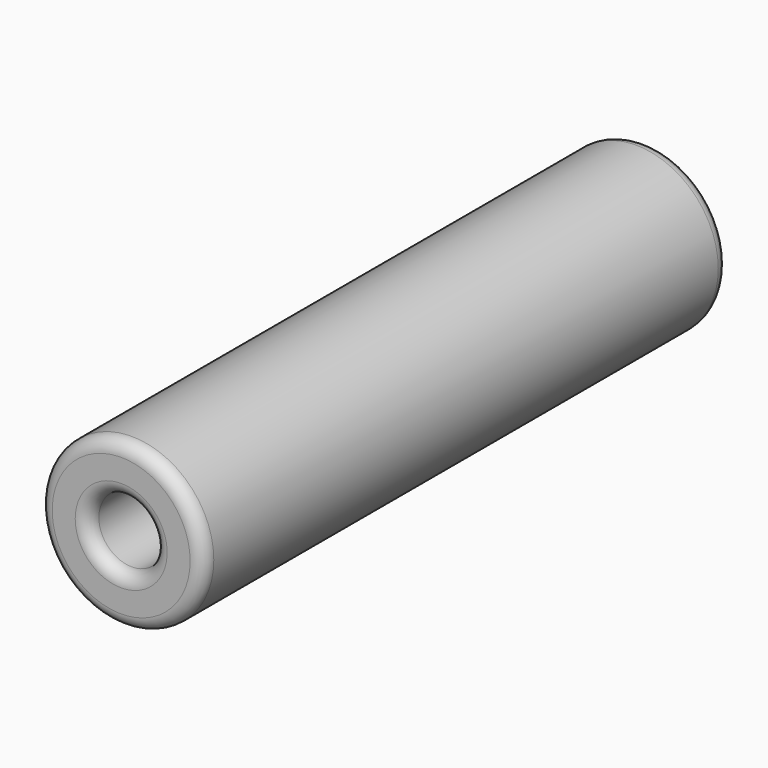
from build123d import *

# Parameters (mm, degrees)
F0_R     = 31.75
F1_DEPTH = 254
F2_R     = 5.08
F3_R     = 5.08
F4_R     = 12.7
F5_DEPTH = 254.001
F6_R     = 5.08


with BuildPart() as f1:
    # F0 (on Front) → F1 (new body)
    with BuildSketch(Plane.XZ):
        Circle(F0_R)
    extrude(amount=F1_DEPTH)

    # F2
    f2_edges = [f1.edges().sort_by_distance(p)[0] for p in [
        (-31.75, -254, 0),
    ]]
    fillet(f2_edges, radius=F2_R)

    # F3
    f3_edges = [f1.edges().sort_by_distance(p)[0] for p in [
        (-31.75, 0, 0),
    ]]
    fillet(f3_edges, radius=F3_R)

    # F4 (on face) → F5 (cut, through all)
    with BuildSketch(Plane(origin=(0, 0, 0), x_dir=(-1, 0, 0), z_dir=(0, 1, 0))):
        Circle(F4_R)
    extrude(amount=-F5_DEPTH, mode=Mode.SUBTRACT)

    # F6
    f6_edges = [f1.edges().sort_by_distance(p)[0] for p in [
        (12.7, 0, 0),
        (-12.7, -127, 0),
        (12.7, -254, 0),
    ]]
    fillet(f6_edges, radius=F6_R)


solid = f1.part
